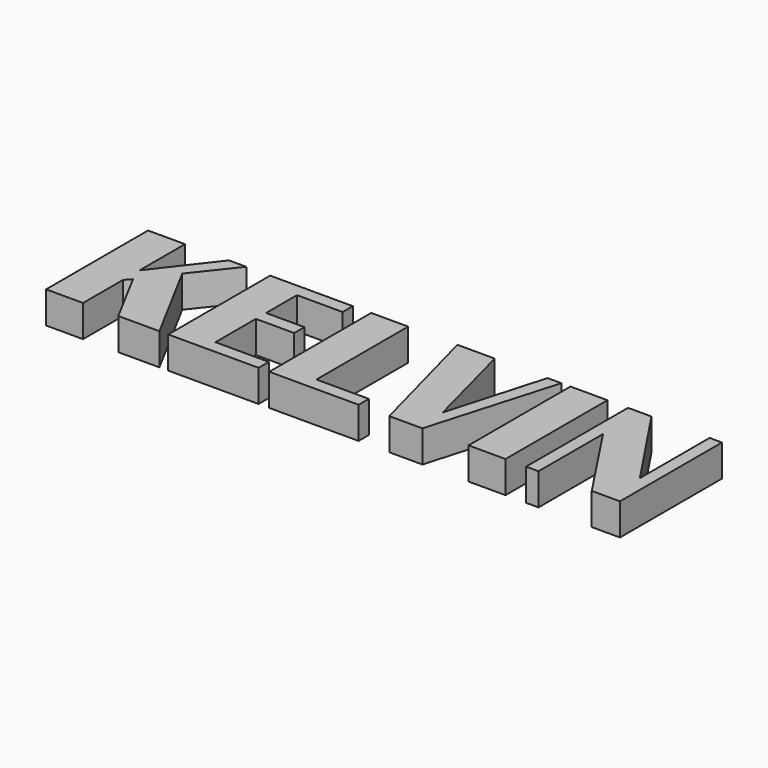
from build123d import *

# Parameters (mm, degrees)
F0_W     = 7.368059
F0_H     = 25.397457
F1_DEPTH = 6.35


with BuildPart() as f1:
    # F0 (on Top) → F1 (new body)
    with BuildSketch(Plane.XY):
        Polygon((-135.608762, 47.861322), (-142.97733, 47.861322), (-142.97733, 22.461322), (-135.608762, 22.461322), (-135.608762, 32.403193), (-134.544052, 33.591459), (-128.591538, 22.461322), (-120.387575, 22.461322), (-129.74472, 39.842945), (-123.396627, 47.861322), (-126.859223, 47.861322), (-135.608762, 36.551699), align=None)
        Polygon((-102.161403, 47.861322), (-118.626786, 47.861322), (-118.626786, 22.461322), (-100.617218, 22.461322), (-100.617218, 25.012762), (-111.259235, 25.012762), (-111.259235, 35.081748), (-103.612541, 35.081748), (-103.612541, 37.630138), (-111.259235, 37.630138), (-111.259235, 45.318525), (-102.161403, 45.318525), align=None)
        Polygon((-91.124314, 47.861322), (-98.492882, 47.861322), (-98.492882, 22.461322), (-80.686188, 22.461322), (-80.686188, 25.012762), (-91.124314, 25.012762), align=None)
        with Locations((-55.088144, 35.16005)):
            Rectangle(F0_W, F0_H)
        Polygon((-42.628644, 47.858779), (-47.296793, 47.858779), (-47.296793, 22.461322), (-44.819588, 22.461322), (-44.819588, 38.540785), (-34.212653, 22.461322), (-28.57996, 22.461322), (-28.57996, 47.858779), (-31.045979, 47.858779), (-31.045979, 30.496477), align=None)
        Polygon((-73.869805, 47.858779), (-81.312607, 47.858779), (-74.567917, 22.461322), (-67.96051, 22.461322), (-60.59296, 47.858779), (-63.345749, 47.858779), (-68.840651, 28.623319), align=None)
    extrude(amount=-F1_DEPTH)


solid = f1.part
